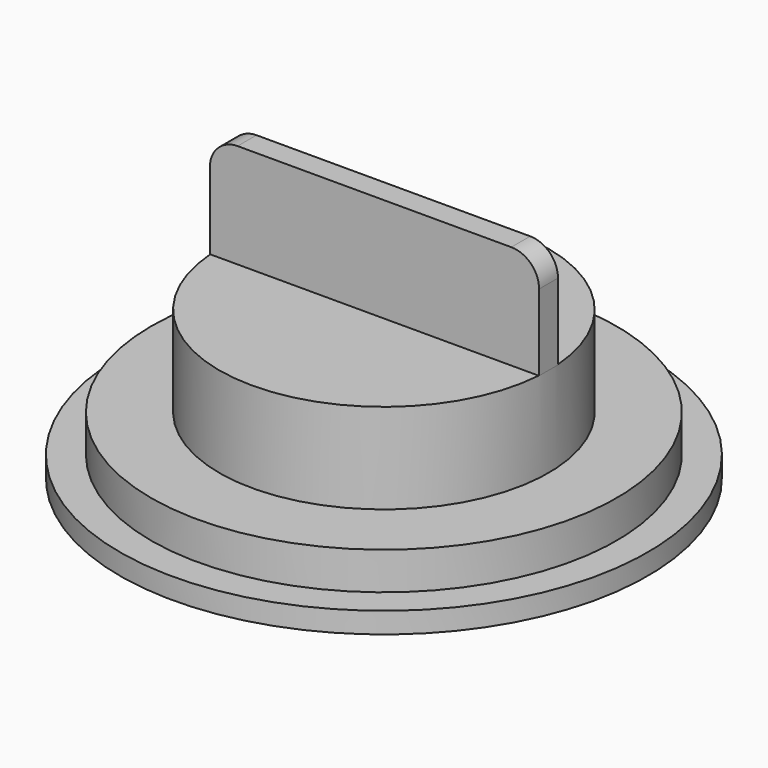
from build123d import *

# Parameters (mm, degrees)
F2_W     = 23.7
F2_H     = 1.7
F3_DEPTH = 7.5
F4_R     = 2
F5_R     = 2


with BuildPart() as f1:
    # F0 (on Front) → F1 (revolve)
    with BuildSketch(Plane.XZ):
        Polygon((0, -1.5), (0, 0), (-11.85, 0), (-11.85, -6.5), (-16.75, -6.5), (-16.75, -9.2), (-19, -9.2), (-19, -10.7), (-15.25, -10.7), (-15.25, -8), (-10.35, -8), (-10.35, -1.5), align=None)
    revolve(axis=Axis((0, 0, -0.75), (0, 0, 1)))

    # F2 (on Top) → F3 (join)
    with BuildSketch(Plane.XY):
        Rectangle(F2_W, F2_H)
    extrude(amount=F3_DEPTH)

    # F4
    f4_edges = [f1.edges().sort_by_distance(p)[0] for p in [
        (-11.85, 0, 7.5),
    ]]
    fillet(f4_edges, radius=F4_R)

    # F5
    f5_edges = [f1.edges().sort_by_distance(p)[0] for p in [
        (11.85, 0, 7.5),
    ]]
    fillet(f5_edges, radius=F5_R)


solid = f1.part
